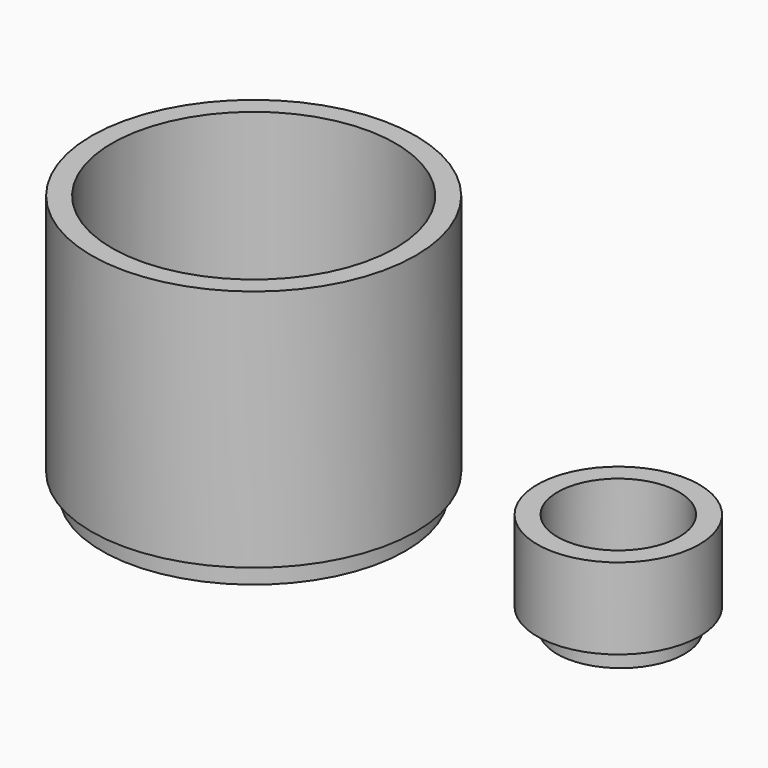
from build123d import *

# Parameters (mm, degrees)
F0_R     = 50.8
F0_R_2   = 44.45
F1_DEPTH = 76.2
F2_R     = 47.585508
F3_DEPTH = 6.35
F4_R     = 25.4
F4_R_2   = 19.05
F5_DEPTH = 25.4
F6_R     = 19.967077
F7_DEPTH = 6.35


with BuildPart() as f1:
    # F0 (on Top) → F1 (new body)
    with BuildSketch(Plane.XY):
        with Locations((-73.26245, 0)):
            Circle(F0_R)
        with Locations((-73.26245, 0)):
            Circle(F0_R_2, mode=Mode.SUBTRACT)
    extrude(amount=F1_DEPTH)

    # F2 (on face) → F3 (join)
    with BuildSketch(Plane(origin=(0, 0, 0), x_dir=(1, 0, 0), z_dir=(0, 0, -1))):
        with Locations((-73.26245, 0)):
            Circle(F2_R)
    extrude(amount=F3_DEPTH)


with BuildPart() as f5:
    # F4 (on Top) → F5 (new body)
    with BuildSketch(Plane.XY):
        with Locations((41.007183, 0)):
            Circle(F4_R)
        with Locations((41.007183, 0)):
            Circle(F4_R_2, mode=Mode.SUBTRACT)
    extrude(amount=F5_DEPTH)

    # F6 (on Top) → F7 (join)
    with BuildSketch(Plane.XY):
        with Locations((41.773129, 0)):
            Circle(F6_R)
    extrude(amount=-F7_DEPTH)


solid = Compound([f1.part, f5.part])
